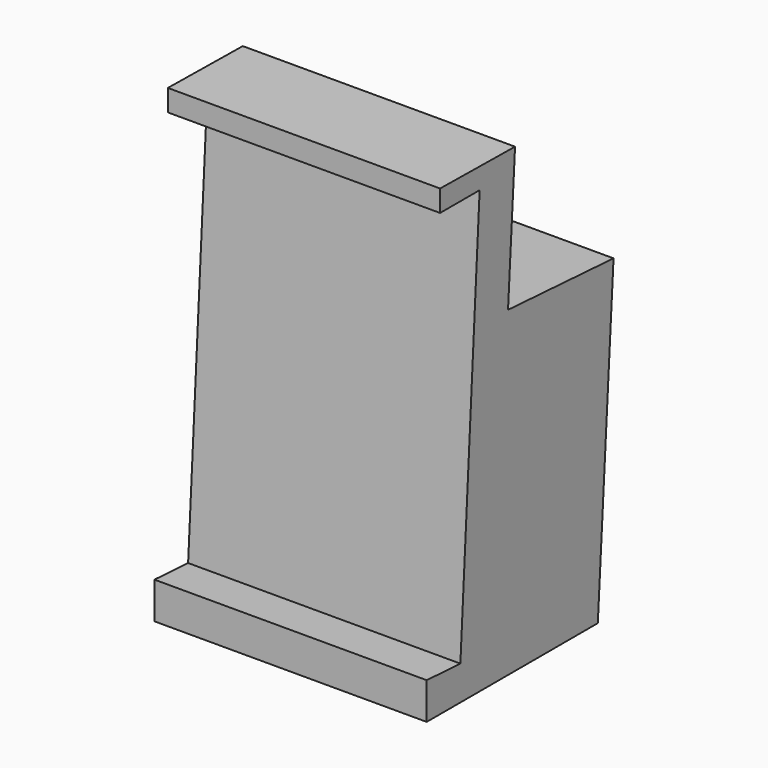
from build123d import *

# Parameters (mm, degrees)
F1_DEPTH      = 36.322
F1_DEPTH_BACK = 36.322
F2_DEPTH      = 67.818


with BuildPart() as f1:
    # F0 (on Right) → F1 (new body, two sides)
    with BuildSketch(Plane.YZ) as f1_sk:
        Polygon((-27.6049010658, 57.5145282299), (-52.6069998741, 57.8507818282), (-52.6069998741, 52.0995371044), (-39.4129604101, 52.0995371044), (-45.8408258855, -56.4975515008), (-57.0658069545, -55.8331444785), (-57.0658069545, -65.6318813562), (0, -65.6318813562), (5.2437838167, 17.9303605109), (-29.9503350813, 20.1388980872), align=None)
    extrude(amount=-F1_DEPTH)
    extrude(f1_sk.sketch, amount=F1_DEPTH_BACK)

    # F2 (add): a face of the model
    f2_faces = [f1.faces().sort_by_distance(p)[0] for p in [
        (0, -12.3532756323, 19.0346292991),
    ]]
    extrude(f2_faces, amount=-F2_DEPTH)


solid = f1.part
